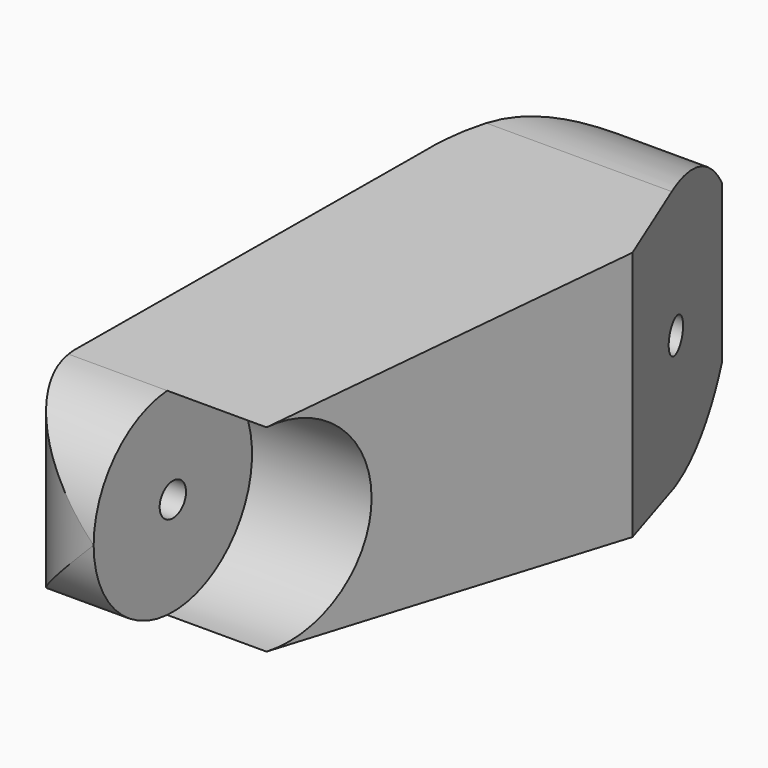
from build123d import *

# Parameters (mm, degrees)
F1_R     = 1.5875
F2_DEPTH = 25.4
F3_DEPTH = 12.7
F5_R     = 9.525
F5_R_2   = 1.5875
F6_DEPTH = 25.4


with BuildPart() as f2:
    # F1 (on Right) → F2 (new body, symmetric)
    with BuildSketch(Plane.YZ):
        with BuildLine():
            Line((-45.1303571429, -9.5006704583), (-0.9071428571, -12.6675606111))
            ThreePointArc((-0.9071428571, -12.6675606111), (12.7, 0), (-0.9071428571, 12.6675606111))
            Line((-0.9071428571, 12.6675606111), (-45.1303571429, 9.5006704583))
            ThreePointArc((-45.1303571429, 9.5006704583), (-53.975, 0), (-45.1303571429, -9.5006704583))
        make_face()
        with Locations((-44.45, 0)):
            Circle(F1_R, mode=Mode.SUBTRACT)
        Circle(F1_R, mode=Mode.SUBTRACT)
    extrude(amount=F2_DEPTH, both=True)

    # F0 (on Top) → F3 (intersect, symmetric)
    with BuildSketch(Plane.XY):
        with BuildLine():
            Line((6.0986519691, -46.6237074677), (13.1521007809, -9.5754071973))
            Line((13.1521007809, -9.5754071973), (5.969, 10.16))
            Line((5.969, 10.16), (3.4413070321, 9.3918339606))
            ThreePointArc((3.4413070321, 9.3918339606), (-2.998086321, 5.846793894), (-7.4532066327, 0))
            ThreePointArc((-7.4532066327, 0), (-8.6264344272, -3.2618802949), (-9.1444445756, -6.6894146861))
            Line((-9.1444445756, -6.6894146861), (-12.7, -44.45))
            ThreePointArc((-12.7, -44.45), (-4.2690955154, -53.9119543437), (6.0986519691, -46.6237074677))
        make_face()
    extrude(amount=F3_DEPTH, both=True, mode=Mode.INTERSECT)

    # F5 (on offset) → F6 (cut)
    with BuildSketch(Plane.YZ.offset(-3.175)):
        with Locations((-44.45, 0)):
            Circle(F5_R)
        with Locations((-44.45, 0)):
            Circle(F5_R_2, mode=Mode.SUBTRACT)
    extrude(amount=F6_DEPTH, mode=Mode.SUBTRACT)


solid = f2.part
